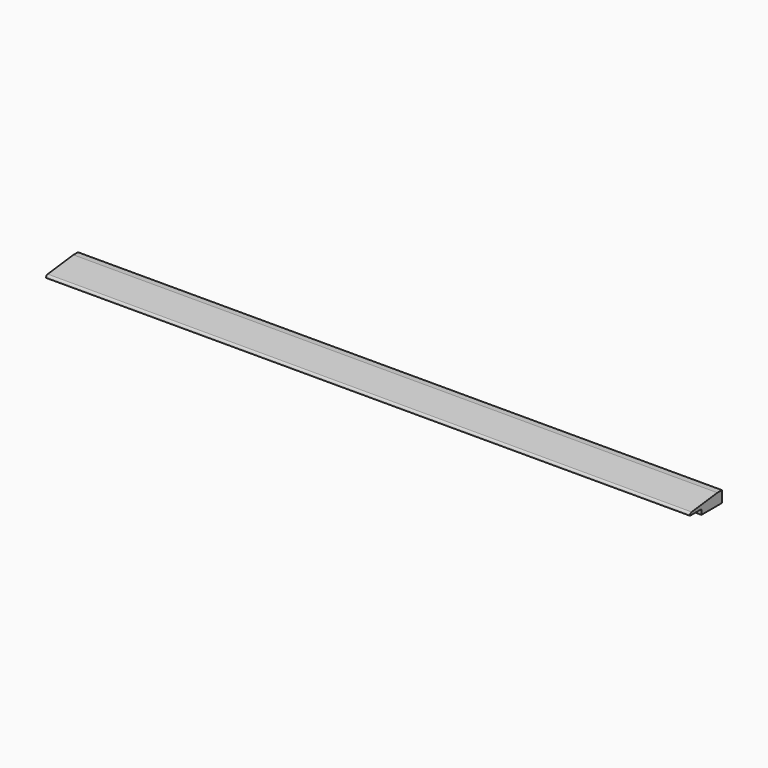
from build123d import *

# Parameters (mm, degrees)
F1_DEPTH = 717.55


with BuildPart() as f1:
    # F0 (on Right) → F1 (new body)
    with BuildSketch(Plane.YZ):
        with BuildLine():
            Line((15.875, 5.514235), (15.875, -0.073765))
            Line((15.875, -0.073765), (44.45, -0.073765))
            Line((44.45, -0.073765), (44.45, 12.626235))
            Line((44.45, 12.626235), (38.1, 12.626235))
            Line((38.1, 12.626235), (2.237371, 8.32272))
            ThreePointArc((2.237371, 8.32272), (0.639964, 7.486476), (0, 5.800812))
            Line((0, 5.800812), (0, 5.514235))
            Line((0, 5.514235), (15.875, 5.514235))
        make_face()
    extrude(amount=F1_DEPTH)


solid = f1.part
